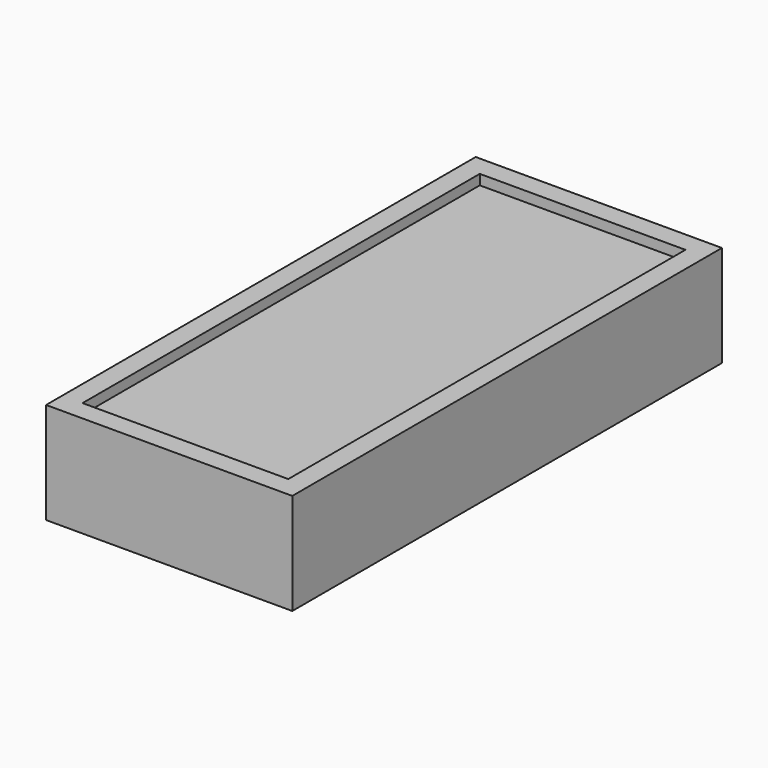
from build123d import *

# Parameters (mm, degrees)
F0_W     = 243
F0_H     = 530
F0_W_2   = 203
F0_H_2   = 490
F1_DEPTH = 100
F2_DEPTH = 10


with BuildPart() as f1:
    # F0 (on Top) → F1 (new body)
    with BuildSketch(Plane.XY):
        with Locations((-144.774729, -88.777618)):
            Rectangle(F0_W, F0_H)
        with Locations((-144.774729, -88.777618)):
            Rectangle(F0_W_2, F0_H_2, mode=Mode.SUBTRACT)
        with Locations((-144.774729, -88.777618)):
            Rectangle(F0_W_2, F0_H_2)
    extrude(amount=-F1_DEPTH)

    # F0 (on Top) → F2 (cut)
    with BuildSketch(Plane.XY):
        with Locations((-144.774729, -88.777618)):
            Rectangle(F0_W_2, F0_H_2)
    extrude(amount=-F2_DEPTH, mode=Mode.SUBTRACT)


solid = f1.part
